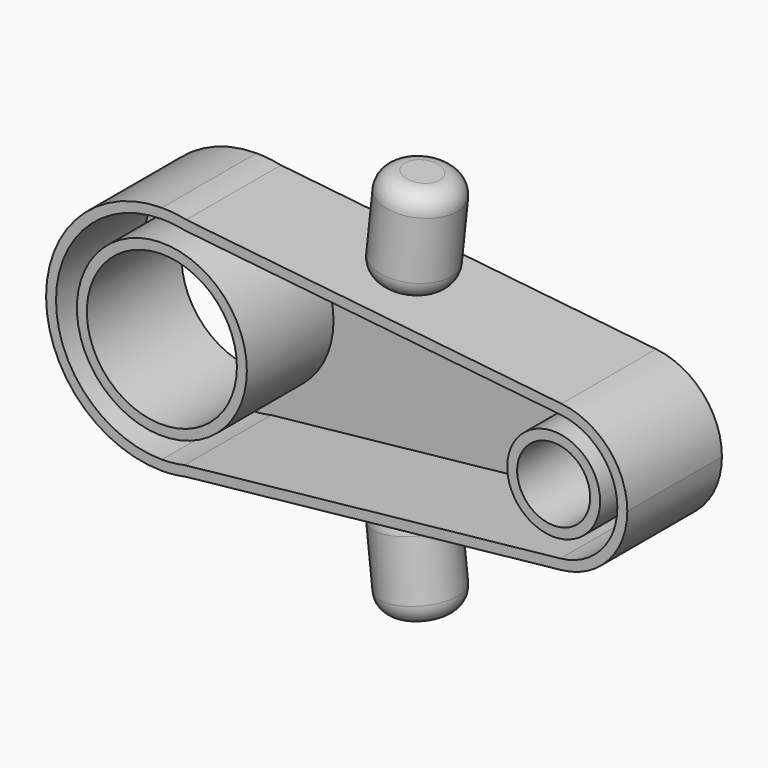
from build123d import *

# Parameters (mm, degrees)
F0_R     = 19.1769271247
F1_DEPTH = 30.226
F2_R     = 9.587871951
F3_DEPTH = 25.4
F4_R     = 5.08
F5_R     = 9.3305387122
F6_DEPTH = 49.53
F7_T     = -2.54


with BuildPart() as f1:
    # F0 (on Front) → F1 (new body)
    with BuildSketch(Plane.XZ):
        with BuildLine():
            Line((6.2329871202, 28.924471608), (0, 29.5884299388))
            ThreePointArc((0, 29.5884299388), (-29.5884299388, 0), (0, -29.5884299388))
            Line((0, -29.5884299388), (6.2329871202, -28.924471608))
            ThreePointArc((6.2329871202, -28.924471608), (23.0206373604, -18.5883146564), (29.5884299388, 0))
            ThreePointArc((29.5884299388, 0), (23.0206373604, 18.5883146564), (6.2329871202, 28.924471608))
        make_face()
        Circle(F0_R, mode=Mode.SUBTRACT)
        with BuildLine():
            ThreePointArc((6.2329871202, 28.924471608), (3.1341254404, 29.4219721291), (0, 29.5884299388))
            Line((0, 29.5884299388), (6.2329871202, 28.924471608))
        make_face()
        with BuildLine():
            Line((6.2329871202, -28.924471608), (0, -29.5884299388))
            ThreePointArc((0, -29.5884299388), (3.1341254404, -29.4219721291), (6.2329871202, -28.924471608))
        make_face()
        with BuildLine():
            Line((102.1173644581, 18.7105517173), (6.2329871202, 28.924471608))
            ThreePointArc((6.2329871202, 28.924471608), (23.0206373604, 18.5883146564), (29.5884299388, 0))
            ThreePointArc((29.5884299388, 0), (23.0206373604, -18.5883146564), (6.2329871202, -28.924471608))
            Line((6.2329871202, -28.924471608), (102.1173644581, -18.7105517173))
            ThreePointArc((102.1173644581, -18.7105517173), (81.3078462498, 0), (102.1173644581, 18.7105517173))
        make_face()
        with BuildLine():
            ThreePointArc((118.9406633957, 0), (114.1164025638, 12.5808200519), (102.1173644581, 18.7105517173))
            ThreePointArc((102.1173644581, 18.7105517173), (81.3078462498, 0), (102.1173644581, -18.7105517173))
            ThreePointArc((102.1173644581, -18.7105517173), (114.1164025638, -12.5808200519), (118.9406633957, 0))
        make_face()
    extrude(amount=F1_DEPTH)

    # F5 (on face) → F6 (cut)
    with BuildSketch(Plane.XZ.offset(30.226)):
        with Locations((100.1242548227, 0)):
            Circle(F5_R)
    extrude(amount=-F6_DEPTH, mode=Mode.SUBTRACT)

    # F7
    f7_openings = [f1.faces().sort_by_distance(p)[0] for p in [
        (44.920957, -30.226, 0),
    ]]
    offset(amount=F7_T, openings=f7_openings, kind=Kind.INTERSECTION)


with BuildPart() as f3:
    # F2 (on face) → F3 (new body)
    with BuildSketch(Plane(origin=(3.1164935601, 0, 29.2564507734), x_dir=(0.9943742263, 0, -0.1059240199), z_dir=(0.1059240199, 0, 0.9943742263))):
        with Locations((48.9636398852, -15.113)):
            Circle(F2_R)
    extrude(amount=F3_DEPTH)

    # F4
    f4_edges = [f3.edges().sort_by_distance(p)[0] for p in [
        (62.683843, -15.113, 35.682992),
        (42.270742, -15.113, 25.085611),
        (44.961212, -15.113, 50.342716),
    ]]
    fillet(f4_edges, radius=F4_R)


with BuildPart() as f8_1:
    # F8: instance of F3
    add(f3.part.mirror(Plane.XY))


with BuildPart() as f8_2:
    # F8: instance of F1
    add(f1.part.mirror(Plane.XY))


solid = Compound([f1.part, f3.part, f8_1.part, f8_2.part])
